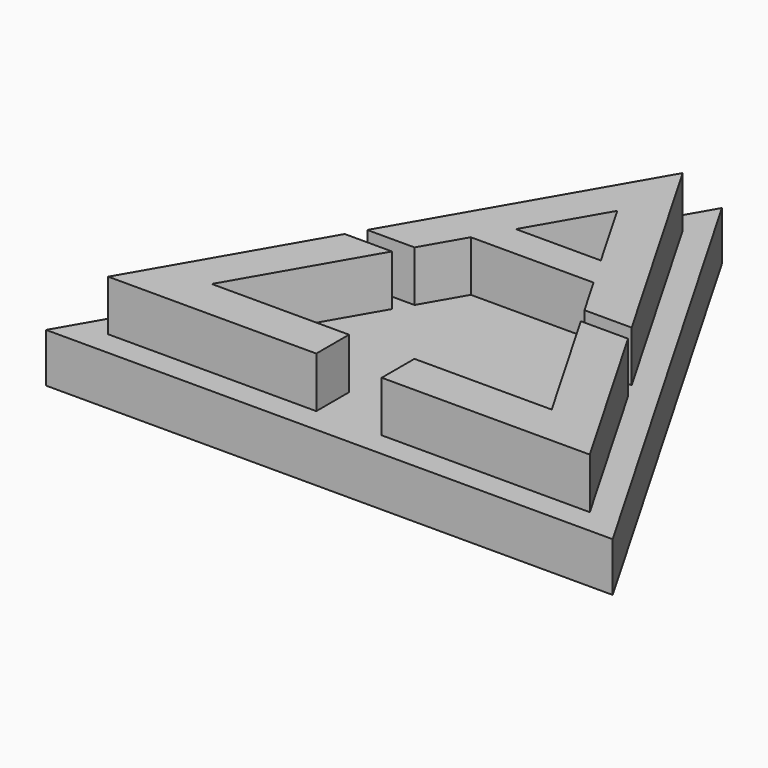
from build123d import *

# Parameters (mm, degrees)
F1_DEPTH = 154.94
F2_DEPTH = 76.2


with BuildPart() as f1:
    # F0 (on Top) → F1 (new body)
    with BuildSketch(Plane.XY):
        Polygon((131.9822608, 76.2), (205.3057616, 76.2), (0, 431.8), (-205.3057616, 76.2), (-131.9822608, 76.2), (-95.3205358, 139.7), (95.3205358, 139.7), align=None)
        Polygon((0, 304.8), (65.9911304, 190.5), (-65.9911304, 190.5), align=None, mode=Mode.SUBTRACT)
    extrude(amount=F1_DEPTH)


with BuildPart() as f1b:
    # F0 (on Top) → F1, piece 2 (new body)
    with BuildSketch(Plane.XY):
        Polygon((-146.6469762, 50.8), (-219.9704516, 50.8), (-373.9497728, -215.9), (-50.8, -215.9), (-50.8, -152.4), (-263.964547, -152.4), align=None)
    extrude(amount=F1_DEPTH)


with BuildPart() as f1c:
    # F0 (on Top) → F1, piece 3 (new body)
    with BuildSketch(Plane.XY):
        Polygon((373.9497728, -215.9), (219.9704516, 50.8), (146.6469762, 50.8), (263.964547, -152.4), (50.8, -152.4), (50.8, -215.9), align=None)
    extrude(amount=F1_DEPTH)


with BuildPart() as f2:
    # F0 (on Top) → F2 (new body)
    with BuildSketch(Plane.XY):
        Polygon((439.9409032, -254), (381.5114571803, -152.7972303936), (225.7717787856, 116.9518065193), (219.9704516, 127), (58.4294478338, 406.7972272514), (0, 508), (-58.4294478338, 406.7972272514), (-214.1691244144, 137.0481934807), (-219.9704516, 127), (-381.5114571803, -152.7972303936), (-439.9409032, -254), (-323.0820079351, -254), (-11.6026438, -254), (0, -254), (323.0820079351, -254), align=None)
        Polygon((-373.9497728, -215.9), (-219.9704516, 50.8), (-146.6469762, 50.8), (-263.964547, -152.4), (-50.8, -152.4), (-50.8, -215.9), align=None, mode=Mode.SUBTRACT)
        Polygon((146.6469762, 50.8), (219.9704516, 50.8), (373.9497728, -215.9), (50.8, -215.9), (50.8, -152.4), (263.964547, -152.4), align=None, mode=Mode.SUBTRACT)
        Polygon((0, 431.8), (205.3057616, 76.2), (131.9822608, 76.2), (95.3205358, 139.7), (-95.3205358, 139.7), (-131.9822608, 76.2), (-205.3057616, 76.2), align=None, mode=Mode.SUBTRACT)
        Polygon((131.9822608, 76.2), (205.3057616, 76.2), (0, 431.8), (-205.3057616, 76.2), (-131.9822608, 76.2), (-95.3205358, 139.7), (95.3205358, 139.7), align=None)
        Polygon((0, 304.8), (65.9911304, 190.5), (-65.9911304, 190.5), align=None, mode=Mode.SUBTRACT)
        Polygon((373.9497728, -215.9), (219.9704516, 50.8), (146.6469762, 50.8), (263.964547, -152.4), (50.8, -152.4), (50.8, -215.9), align=None)
        Polygon((-146.6469762, 50.8), (-219.9704516, 50.8), (-373.9497728, -215.9), (-50.8, -215.9), (-50.8, -152.4), (-263.964547, -152.4), align=None)
        Polygon((-65.9911304, 190.5), (65.9911304, 190.5), (0, 304.8), align=None)
    extrude(amount=F2_DEPTH)


solid = Compound([f1.part, f1b.part, f1c.part, f2.part])
